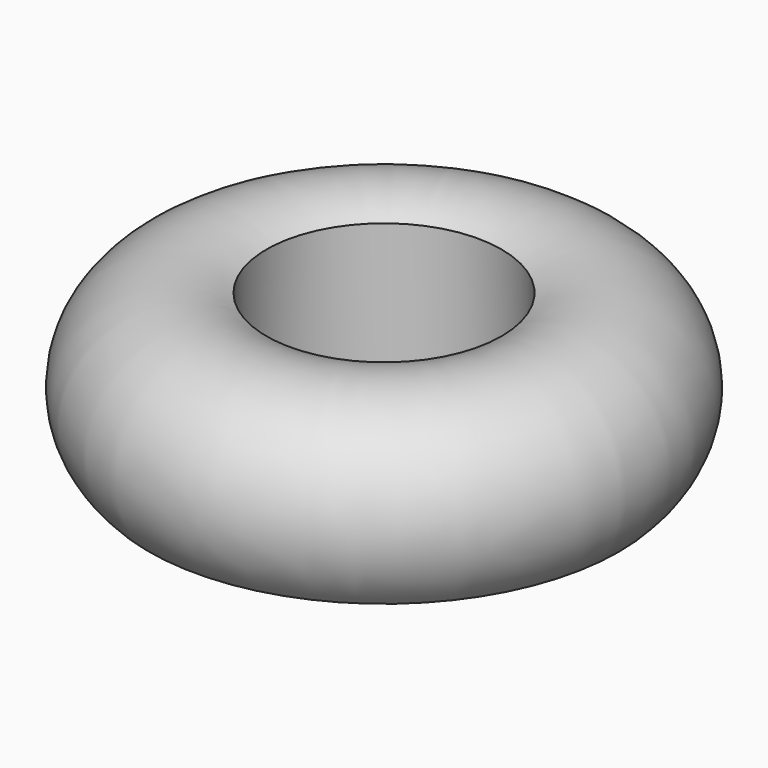
from build123d import *


with BuildPart() as f1:
    # F0 (on Front) → F1 (revolve)
    with BuildSketch(Plane.XZ):
        with BuildLine():
            ThreePointArc((41.972462, 0), (45.041651, 45.708095), (0, 54.068692))
            Line((0, 54.068692), (0, 0))
            Line((0, 0), (41.972462, 0))
        make_face()
    revolve(axis=Axis((-41.972458, 0, 19.091641), (0, 0, -1)))


solid = f1.part
